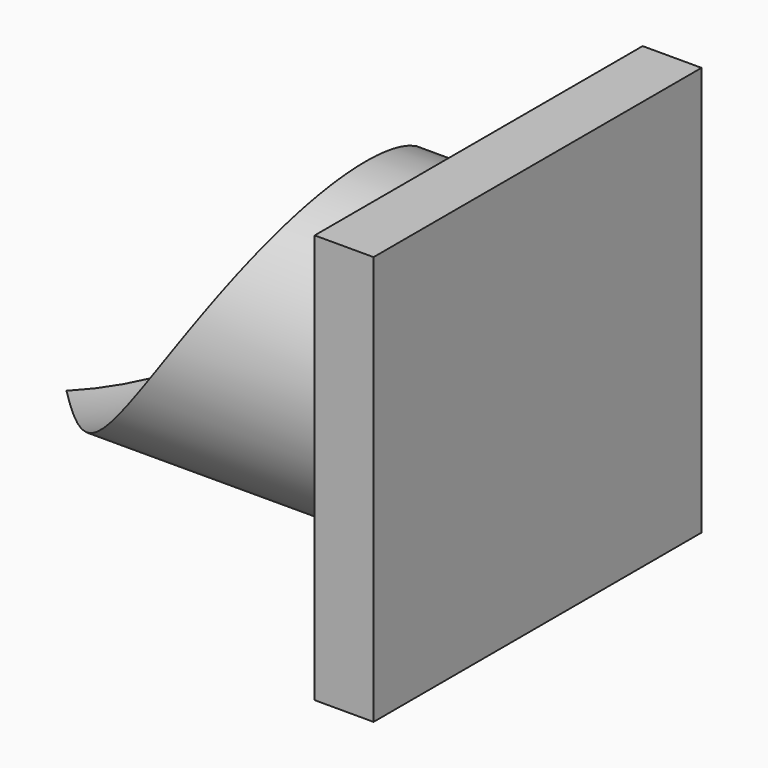
from build123d import *

# Parameters (mm, degrees)
F0_R     = 12.7
F1_DEPTH = 35
F2_W     = 34.810588
F2_H     = 34.74434
F3_DEPTH = 5


with BuildPart() as f1:
    # F0 (on Right) → F1 (new body)
    with BuildSketch(Plane.YZ):
        Circle(F0_R)
    extrude(amount=F1_DEPTH)

    # F2 (on face) → F3 (join)
    with BuildSketch(Plane.YZ.offset(35)):
        Rectangle(F2_W, F2_H)
    extrude(amount=F3_DEPTH)

    # F4 (on face) → F5 (revolve, cut)
    with BuildSketch(Plane(origin=(0, 0, 0), x_dir=(0, -1, 0), z_dir=(-1, 0, 0))):
        with BuildLine():
            ThreePointArc((0, 38.1), (-25.4, 12.7), (0, -12.7))
            Line((0, -12.7), (0, 38.1))
        make_face()
    revolve(axis=Axis((0, 0, 12.7), (0, 0, 1)), mode=Mode.SUBTRACT)


solid = f1.part
